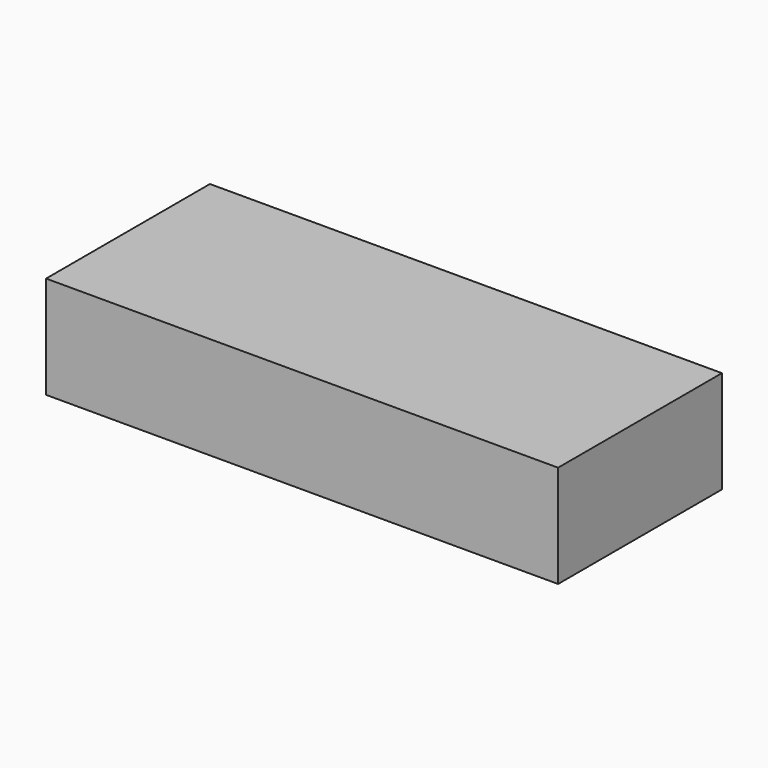
from build123d import *

# Parameters (mm, degrees)
F0_W     = 5000
F0_H     = 1000
F1_DEPTH = 2000


with BuildPart() as f1:
    # F0 (on Front) → F1 (new body)
    with BuildSketch(Plane.XZ):
        with Locations((-2.5102024217, -744.4396660565)):
            Rectangle(F0_W, F0_H)
    extrude(amount=F1_DEPTH)


with BuildPart() as f1_1:
    # F2: moved
    add(f1.part.moved(Location((2502.5102024217, 2000, 1244.4396660565))))


solid = f1_1.part
